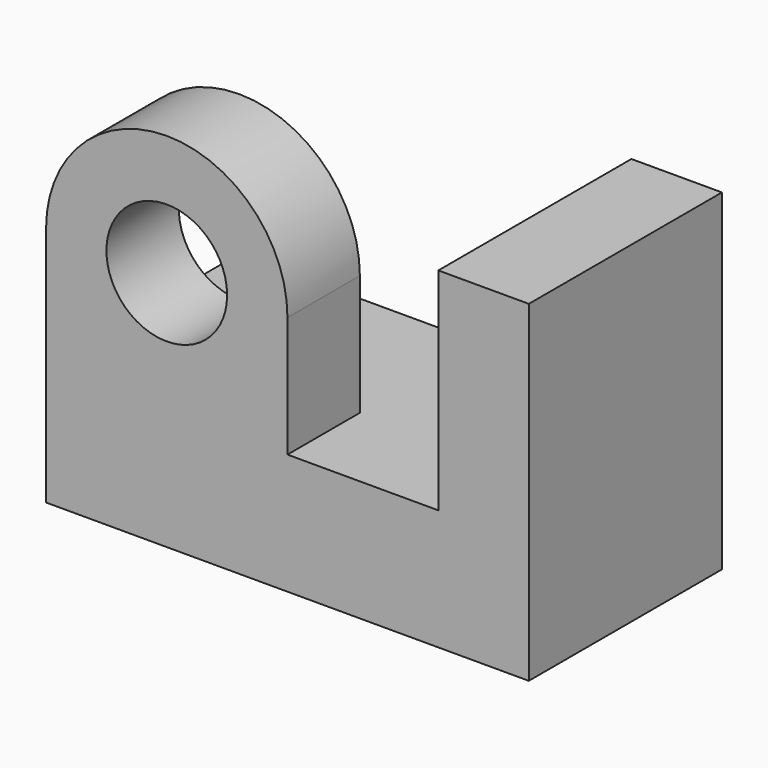
from build123d import *

# Parameters (mm, degrees)
F1_DEPTH = 40
F0_R     = 10
F2_DEPTH = 15


with BuildPart() as f1:
    # F0 (on Front) → F1 (new body)
    with BuildSketch(Plane.XZ):
        Polygon((0, 20), (0, 0), (80, 0), (80, 55), (65, 55), (65, 20), (40, 20), align=None)
    extrude(amount=-F1_DEPTH)

    # F0 (on Front) → F2 (join)
    with BuildSketch(Plane.XZ):
        with BuildLine():
            Line((0, 40), (0, 20))
            Line((0, 20), (40, 20))
            Line((40, 20), (40, 40))
            ThreePointArc((40, 40), (20, 60), (0, 40))
        make_face()
        with Locations((20, 40)):
            Circle(F0_R, mode=Mode.SUBTRACT)
    extrude(amount=-F2_DEPTH)


solid = f1.part
